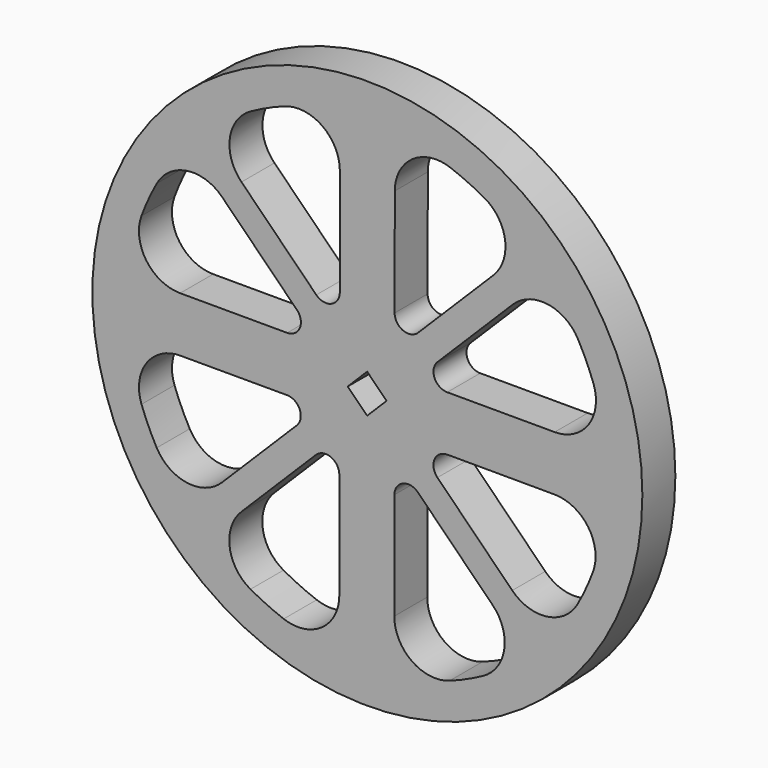
from build123d import *

# Parameters (mm, degrees)
F0_R     = 20
F1_DEPTH = 3


with BuildPart() as f1:
    # F0 (on Front) → F1 (new body)
    with BuildSketch(Plane.XZ):
        Circle(F0_R)
        with BuildLine():
            Line((-2.040502, -5.857894), (-2.040502, -13.59571))
            ThreePointArc((-2.040502, -13.59571), (-3.327112, -16.058289), (-6.083365, -16.408616))
            ThreePointArc((-6.083365, -16.408616), (-7.312896, -15.898791), (-8.500121, -15.296991))
            ThreePointArc((-8.500121, -15.296991), (-10.01425, -13.08868), (-9.161506, -10.550561))
            Line((-9.161506, -10.550561), (-3.746685, -5.149865))
            ThreePointArc((-3.746685, -5.149865), (-2.657216, -4.934265), (-2.040502, -5.857894))
        make_face(mode=Mode.SUBTRACT)
        with BuildLine():
            ThreePointArc((-15.318144, -8.461942), (-15.918782, -7.269277), (-16.426729, -6.034284))
            ThreePointArc((-16.426729, -6.034284), (-16.070027, -3.281756), (-13.608252, -1.999837))
            Line((-13.608252, -1.999837), (-5.843646, -2.006218))
            ThreePointArc((-5.843646, -2.006218), (-4.920182, -2.624518), (-5.138285, -3.714248))
            Line((-5.138285, -3.714248), (-10.573628, -9.135412))
            ThreePointArc((-10.573628, -9.135412), (-13.113791, -9.981549), (-15.318144, -8.461942))
        make_face(mode=Mode.SUBTRACT)
        Polygon((-1.42976, -0.015397), (-0.01428, 1.396391), (1.397442, -0.019157), (-0.018038, -1.430945), align=None, mode=Mode.SUBTRACT)
        with BuildLine():
            Line((1.958048, -13.621938), (1.968576, -5.84043))
            ThreePointArc((1.968576, -5.84043), (2.587142, -4.917387), (3.676638, -5.135634))
            Line((3.676638, -5.135634), (9.11262, -10.586348))
            ThreePointArc((9.11262, -10.586348), (9.958266, -13.129158), (8.434314, -15.333374))
            ThreePointArc((8.434314, -15.333374), (7.230482, -15.93644), (5.983848, -16.445168))
            ThreePointArc((5.983848, -16.445168), (3.235542, -16.082209), (1.958048, -13.621938))
        make_face(mode=Mode.SUBTRACT)
        with BuildLine():
            ThreePointArc((5.095611, -3.727349), (4.880482, -2.63686), (5.805907, -2.021202))
            Line((5.805907, -2.021202), (13.603112, -2.038616))
            ThreePointArc((13.603112, -2.038616), (16.060784, -3.327798), (16.409463, -6.081079))
            ThreePointArc((16.409463, -6.081079), (15.892706, -7.326111), (15.281649, -8.527673))
            ThreePointArc((15.281649, -8.527673), (13.07322, -10.037461), (10.537749, -9.184234))
            Line((10.537749, -9.184234), (5.095611, -3.727349))
        make_face(mode=Mode.SUBTRACT)
        with BuildLine():
            ThreePointArc((-5.125662, 3.690521), (-4.910364, 2.600439), (-5.835078, 1.984373))
            Line((-5.835078, 1.984373), (-13.61659, 1.994901))
            ThreePointArc((-13.61659, 1.994901), (-16.073395, 3.279047), (-16.428916, 6.028325))
            ThreePointArc((-16.428916, 6.028325), (-15.916815, 7.273582), (-15.310491, 8.47578))
            ThreePointArc((-15.310491, 8.47578), (-13.102159, 9.993762), (-10.561647, 9.141237))
            Line((-10.561647, 9.141237), (-5.125662, 3.690521))
        make_face(mode=Mode.SUBTRACT)
        with BuildLine():
            Line((-2.001786, 13.608583), (-2.005473, 5.811347))
            ThreePointArc((-2.005473, 5.811347), (-2.623633, 4.887592), (-3.713536, 5.105671))
            Line((-3.713536, 5.105671), (-9.155682, 10.562566))
            ThreePointArc((-9.155682, 10.562566), (-10.002043, 13.100337), (-8.486285, 15.304672))
            ThreePointArc((-8.486285, 15.304672), (-7.283068, 15.912477), (-6.036638, 16.425864))
            ThreePointArc((-6.036638, 16.425864), (-3.284311, 16.069733), (-2.001786, 13.608583))
        make_face(mode=Mode.SUBTRACT)
        with BuildLine():
            ThreePointArc((16.445168, 5.983848), (16.082209, 3.235542), (13.621938, 1.958048))
            Line((13.621938, 1.958048), (5.807743, 1.968621))
            ThreePointArc((5.807743, 1.968621), (4.884709, 2.587165), (5.102914, 3.676649))
            Line((5.102914, 3.676649), (10.574454, 9.133917))
            ThreePointArc((10.574454, 9.133917), (13.114792, 9.980029), (15.319141, 8.460137))
            ThreePointArc((15.319141, 8.460137), (15.930343, 7.243905), (16.445168, 5.983848))
        make_face(mode=Mode.SUBTRACT)
        with BuildLine():
            Line((1.984327, 5.800898), (1.994901, 13.61659))
            ThreePointArc((1.994901, 13.61659), (3.279047, 16.073395), (6.028325, 16.428916))
            ThreePointArc((6.028325, 16.428916), (7.287175, 15.910597), (8.501923, 15.29599))
            ThreePointArc((8.501923, 15.29599), (10.015768, 13.087675), (9.162999, 10.549731))
            Line((9.162999, 10.549731), (3.690508, 5.091516))
            ThreePointArc((3.690508, 5.091516), (2.600414, 4.876175), (1.984327, 5.800898))
        make_face(mode=Mode.SUBTRACT)
    extrude(amount=F1_DEPTH)


solid = f1.part
